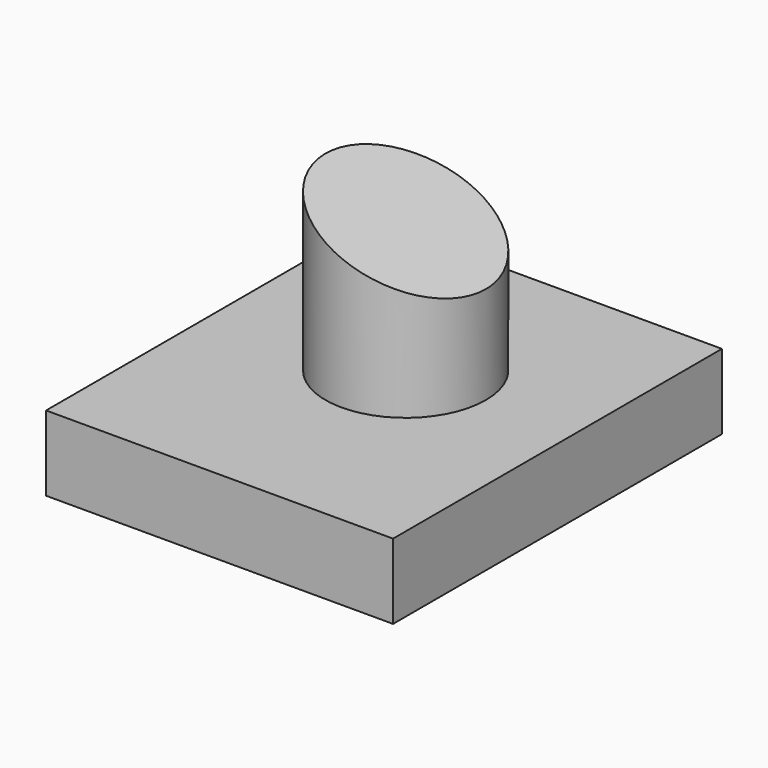
from build123d import *

# Parameters (mm, degrees)
F1_DEPTH = 50.8
F2_W     = 61.014819
F2_H     = 64.756295
F2_R     = 9.911554
F3_DEPTH = 25.4


with BuildPart() as f1:
    # F0 (on Front) → F1 (new body)
    with BuildSketch(Plane.XZ):
        Polygon((42.883057, -17.987859), (0, 0), (0, -34.680594), (42.883057, -34.680594), align=None)
    extrude(amount=F1_DEPTH)

    # F2 (on Top) → F3 (cut)
    with BuildSketch(Plane.XY):
        with Locations((21.58543, -24.751295)):
            Rectangle(F2_W, F2_H)
        with Locations((21.873239, -22.592753)):
            Circle(F2_R, mode=Mode.SUBTRACT)
    extrude(amount=-F3_DEPTH, mode=Mode.SUBTRACT)


solid = f1.part
